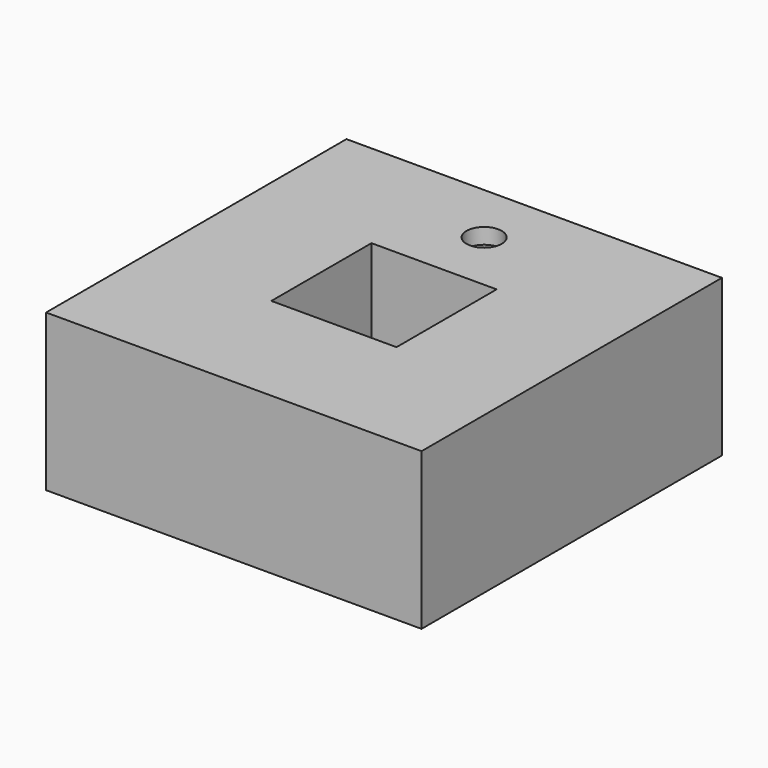
from build123d import *

# Parameters (mm, degrees)
F0_W     = 152.4
F0_H     = 152.4
F0_W_2   = 50.8
F0_H_2   = 50.8
F1_DEPTH = 50.8
F2_T     = -6.35
F3_W     = 6.35
F3_H     = 38.1
F4_DEPTH = 139.7
F5_W     = 152.4
F5_H     = 152.4
F6_DEPTH = 12.7
F7_R     = 7.14375
F8_DEPTH = 76.2


with BuildPart() as f1:
    # F0 (on Top) → F1 (new body)
    with BuildSketch(Plane.XY):
        with Locations((76.2, 76.2)):
            Rectangle(F0_W, F0_H)
        with Locations((76.2, 76.2)):
            Rectangle(F0_W_2, F0_H_2, mode=Mode.SUBTRACT)
    extrude(amount=F1_DEPTH)

    # F2
    f2_openings = [f1.faces().sort_by_distance(p)[0] for p in [
        (76.2, 0, 25.4),
    ]]
    offset(amount=F2_T, openings=f2_openings, kind=Kind.INTERSECTION)

    # F3 (on face) → F4 (join)
    with BuildSketch(Plane.YZ.offset(6.35)):
        with Locations((3.175, 25.4)):
            Rectangle(F3_W, F3_H)
    extrude(amount=F4_DEPTH)

    # F5 (on face) → F6 (join)
    with BuildSketch(Plane(origin=(0, 0, 0), x_dir=(1, 0, 0), z_dir=(0, 0, -1))):
        with Locations((76.2, -76.2)):
            Rectangle(F5_W, F5_H)
    extrude(amount=F6_DEPTH)

    # F7 (on face) → F8 (cut)
    with BuildSketch(Plane.XY.offset(50.8)):
        with Locations((76.2, 127)):
            Circle(F7_R)
    extrude(amount=-F8_DEPTH, mode=Mode.SUBTRACT)


solid = f1.part
